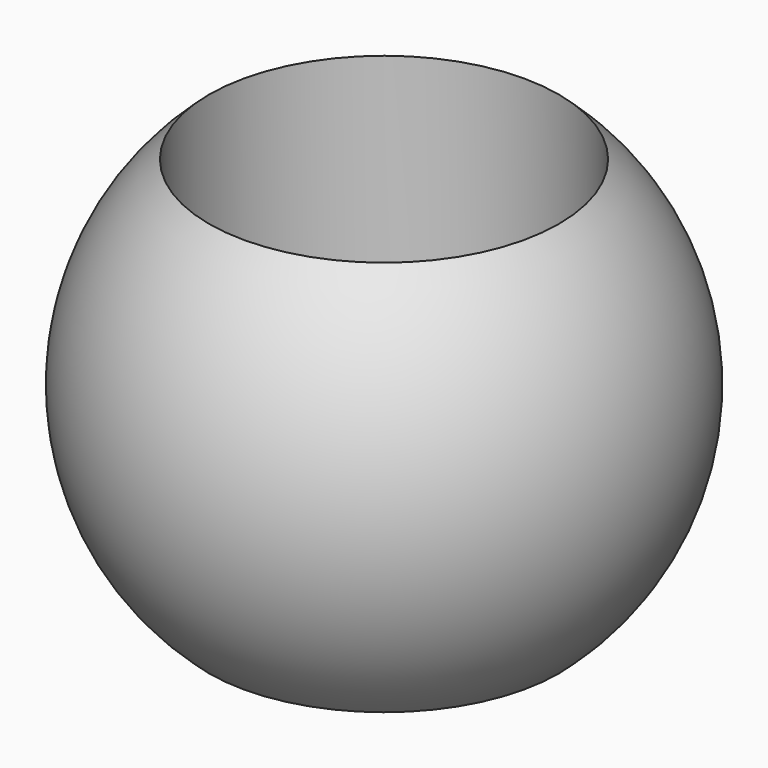
from build123d import *

# Parameters (mm, degrees)
F2_R          = 49.551822
F3_DEPTH      = 74.795573
F3_DEPTH_BACK = 74.795573


with BuildPart() as f1:
    # F0 (on Front) → F1 (revolve)
    with BuildSketch(Plane.XZ):
        with BuildLine():
            Line((0, -74.794573), (0, 74.794573))
            ThreePointArc((0, 74.794573), (-74.794573, 0), (0, -74.794573))
        make_face()
    revolve(axis=Axis((0, 0, 86.102903), (0, 0, 1)))

    # F2 (on Top) → F3 (cut, two sides)
    with BuildSketch(Plane.XY) as f3_sk:
        Circle(F2_R)
    extrude(amount=F3_DEPTH, mode=Mode.SUBTRACT)
    extrude(f3_sk.sketch, amount=-F3_DEPTH_BACK, mode=Mode.SUBTRACT)


solid = f1.part
